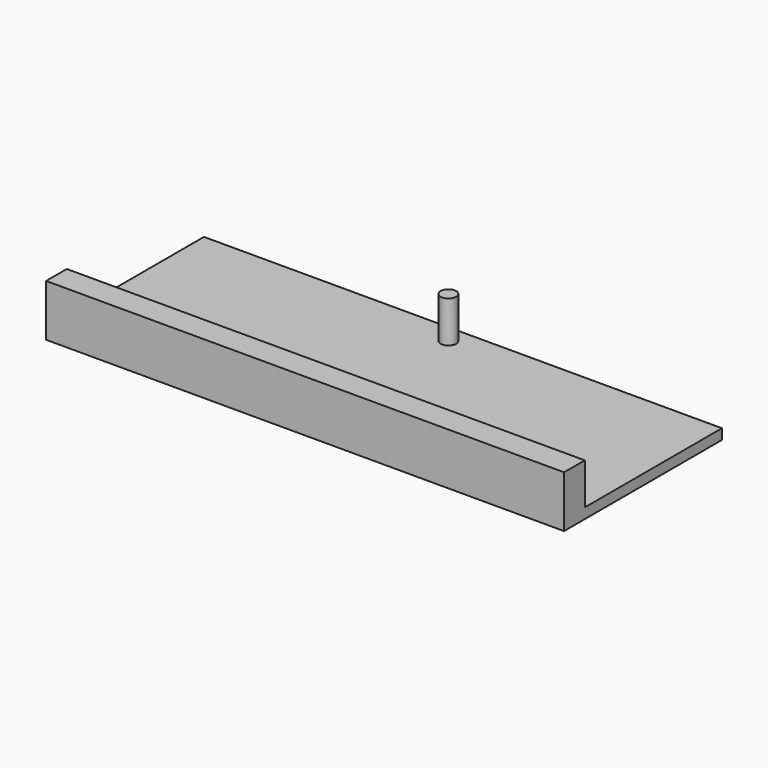
from build123d import *

# Parameters (mm, degrees)
F0_R     = 1.5
F0_W     = 100
F0_H     = 5
F1_DEPTH = 10
F2_W     = 100
F2_H     = 38.098593
F3_DEPTH = 2


with BuildPart() as f1:
    # F0 (on Top) → F1 (new body)
    with BuildSketch(Plane.XY):
        with Locations((0, 29.598593)):
            Circle(F0_R)
        with Locations((0, -2.5)):
            Rectangle(F0_W, F0_H)
    extrude(amount=F1_DEPTH)

    # F2 (on Top) → F3 (join)
    with BuildSketch(Plane.XY):
        with Locations((0, 14.049297)):
            Rectangle(F2_W, F2_H)
    extrude(amount=F3_DEPTH)


solid = f1.part
